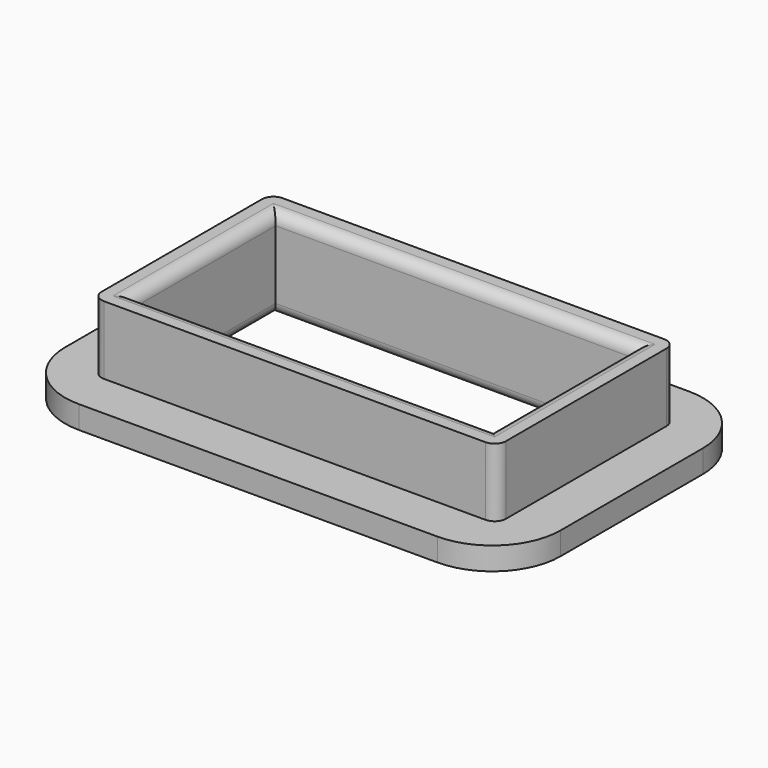
from build123d import *

# Parameters (mm, degrees)
F0_W     = 21.75
F0_H     = 13.8
F0_W_2   = 17.75
F0_H_2   = 9.8
F1_DEPTH = 1
F0_W_3   = 15.75
F0_H_3   = 7.8
F2_DEPTH = 4
F3_R     = 0.5
F4_R     = 0.5
F5_R     = 3


with BuildPart() as f1:
    # F0 (on Top) → F1 (new body)
    with BuildSketch(Plane.XY):
        with Locations((10.875, 6.9)):
            Rectangle(F0_W, F0_H)
        with Locations((10.875, 6.9)):
            Rectangle(F0_W_2, F0_H_2, mode=Mode.SUBTRACT)
    extrude(amount=F1_DEPTH)

    # F0 (on Top) → F2 (join)
    with BuildSketch(Plane.XY):
        with Locations((10.875, 6.9)):
            Rectangle(F0_W_2, F0_H_2)
        with Locations((10.875, 6.9)):
            Rectangle(F0_W_3, F0_H_3, mode=Mode.SUBTRACT)
    extrude(amount=F2_DEPTH)

    # F3
    f3_edges = [f1.edges().sort_by_distance(p)[0] for p in [
        (10.875, 10.8, 4),
        (18.75, 6.9, 4),
        (10.875, 3, 4),
        (3, 6.9, 4),
        (10.875, 10.8, 0),
        (3, 6.9, 0),
        (10.875, 3, 0),
        (18.75, 6.9, 0),
    ]]
    fillet(f3_edges, radius=F3_R)

    # F4
    f4_edges = [f1.edges().sort_by_distance(p)[0] for p in [
        (2, 11.8, 2.5),
        (2, 2, 2.5),
        (19.75, 2, 2.5),
        (19.75, 11.8, 2.5),
    ]]
    fillet(f4_edges, radius=F4_R)

    # F5
    f5_edges = [f1.edges().sort_by_distance(p)[0] for p in [
        (0, 13.8, 0.5),
        (21.75, 13.8, 0.5),
        (21.75, 0, 0.5),
        (0, 0, 0.5),
    ]]
    fillet(f5_edges, radius=F5_R)


solid = f1.part
